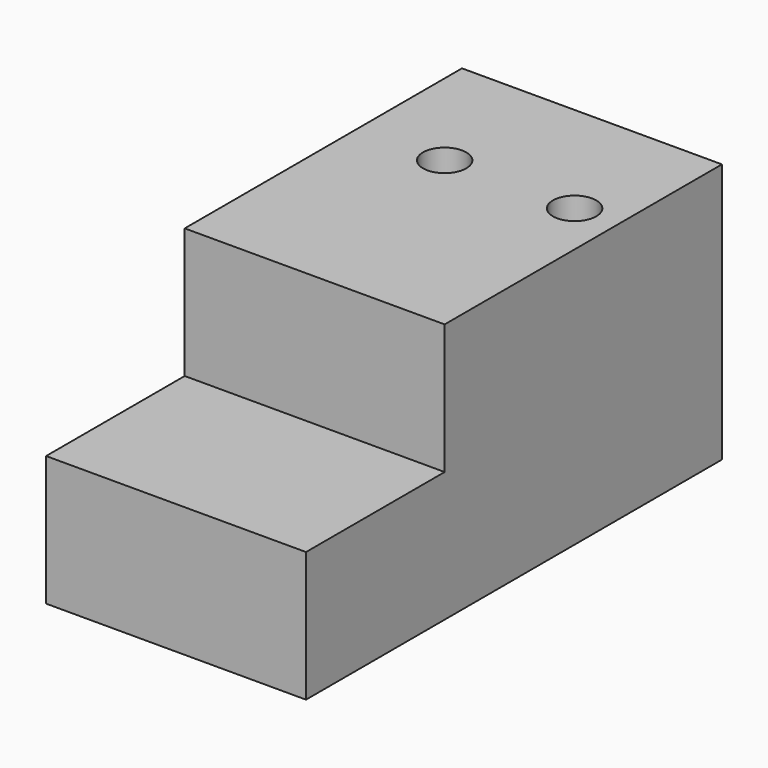
from build123d import *

# Parameters (mm, degrees)
F0_W     = 76.2
F0_H     = 101.6
F0_R     = 6.35
F1_DEPTH = 76.2
F2_W     = 76.2
F2_H     = 38.1
F3_DEPTH = 50.8


with BuildPart() as f1:
    # F0 (on Top) → F1 (new body)
    with BuildSketch(Plane.XY):
        with Locations((6.791918, -12.245905)):
            Rectangle(F0_W, F0_H)
        with Locations((-5.908082, 0.454095)):
            Circle(F0_R, mode=Mode.SUBTRACT)
        with Locations((32.191918, 0.454095)):
            Circle(F0_R, mode=Mode.SUBTRACT)
    extrude(amount=-F1_DEPTH)

    # F2 (on face) → F3 (join)
    with BuildSketch(Plane.XZ.offset(63.045905)):
        with Locations((6.791918, -57.15)):
            Rectangle(F2_W, F2_H)
    extrude(amount=F3_DEPTH)


solid = f1.part
